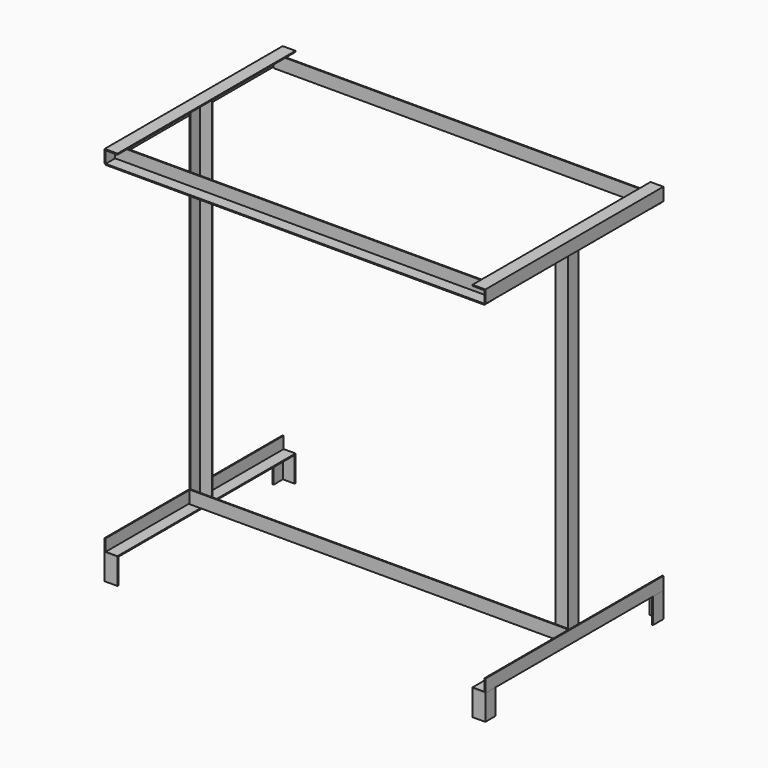
from build123d import *

# Parameters (mm, degrees)
F1_DEPTH  = 440.8
F2_W      = 2
F2_H      = 23.4
F3_DEPTH  = 750
F5_DEPTH  = 440.8
F7_DEPTH  = 700
F9_DEPTH  = 440.8
F11_DEPTH = 50
F13_DEPTH = 746


with BuildPart() as f1:
    # F0 (on Front) → F1 (new body)
    with BuildSketch(Plane.XZ):
        Polygon((0, 25.4), (0, 0), (2, 0), (2, 23.4), (25.4, 23.4), (25.4, 25.4), align=None)
    extrude(amount=-F1_DEPTH)


with BuildPart() as f3:
    # F2 (on face) → F3 (new body)
    with BuildSketch(Plane.YZ.offset(2)):
        with Locations((24.4, 11.7)):
            Rectangle(F2_W, F2_H)
        Polygon((25.4, -2), (25.4, 0), (23.4, 0), (0, 0), (0, -2), align=None)
        with Locations((416.4, 11.7)):
            Rectangle(F2_W, F2_H)
        Polygon((417.4, 0), (415.4, 0), (415.4, -2), (440.8, -2), (440.8, 0), align=None)
    extrude(amount=F3_DEPTH)


with BuildPart() as f5:
    # F4 (on Front) → F5 (new body)
    with BuildSketch(Plane.XZ):
        Polygon((752, 0), (754, 0), (754, 25.4), (728.6, 25.4), (728.6, 23.4), (752, 23.4), align=None)
    extrude(amount=-F5_DEPTH)


with BuildPart() as f7:
    # F6 (on face) → F7 (new body)
    with BuildSketch(Plane(origin=(0, 0, 23.4), x_dir=(1, 0, 0), z_dir=(0, 0, -1))):
        Polygon((2, -207.7), (2, -220.4), (2, -233.1), (27.4, -233.1), (27.4, -231.1), (4, -231.1), (4, -207.7), align=None)
        Polygon((752, -233.1), (752, -220.4), (752, -207.7), (726.6, -207.7), (726.6, -209.7), (750, -209.7), (750, -233.1), align=None)
    extrude(amount=F7_DEPTH)


with BuildPart() as f9:
    # F8 (on Front) → F9 (new body)
    with BuildSketch(Plane.XZ):
        Polygon((25.4, -678.6), (25.4, -676.6), (2, -676.6), (2, -653.2), (0, -653.2), (0, -678.6), align=None)
        Polygon((752, -676.6), (728.6, -676.6), (728.6, -678.6), (754, -678.6), (754, -653.2), (752, -653.2), align=None)
    extrude(amount=-F9_DEPTH)


with BuildPart() as f11:
    # F10 (on face) → F11 (new body)
    with BuildSketch(Plane(origin=(0, 0, -678.6), x_dir=(1, 0, 0), z_dir=(0, 0, -1))):
        Polygon((25.4, 0), (0, 0), (0, -25.4), (2, -25.4), (2, -2), (25.4, -2), align=None)
        Polygon((0, -415.4), (0, -440.8), (25.4, -440.8), (25.4, -438.8), (2, -438.8), (2, -415.4), align=None)
        Polygon((728.6, 0), (728.6, -2), (752, -2), (752, -25.4), (754, -25.4), (754, 0), align=None)
        Polygon((752, -438.8), (728.6, -438.8), (728.6, -440.8), (754, -440.8), (754, -415.4), (752, -415.4), align=None)
    extrude(amount=F11_DEPTH)


with BuildPart() as f13:
    # F12 (on face) → F13 (new body, through all)
    with BuildSketch(Plane.YZ.offset(4)):
        Polygon((205.7, -676.6), (231.1, -676.6), (231.1, -674.6), (207.7, -674.6), (207.7, -651.2), (205.7, -651.2), align=None)
    extrude(amount=F13_DEPTH)


solid = Compound([f1.part, f3.part, f5.part, f7.part, f9.part, f11.part, f13.part])
